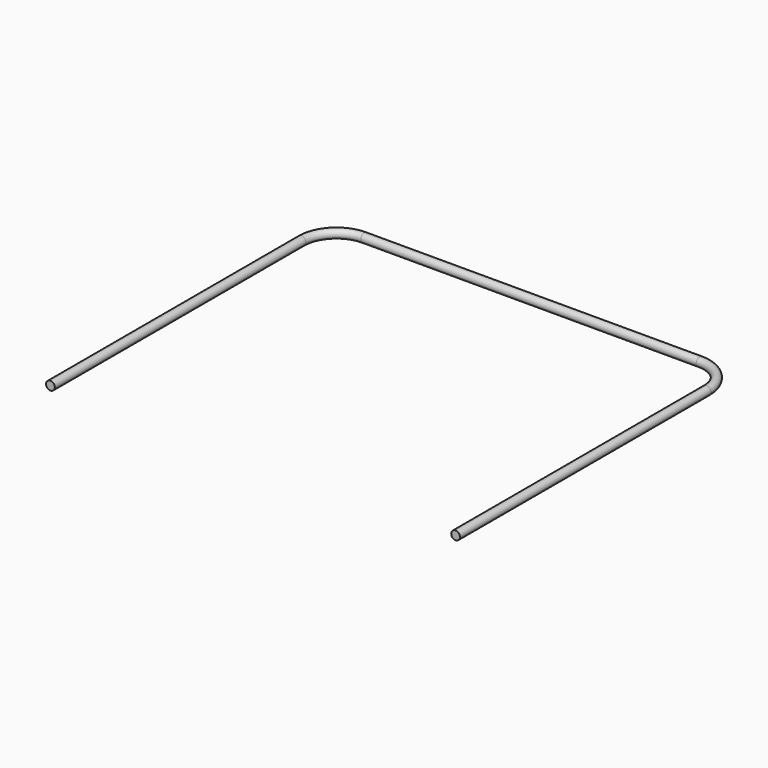
from build123d import *

# Parameters (mm, degrees)
F1_R = 25


with BuildPart() as f2:
    # F2: sweep along a path in F0
    with BuildLine(Plane.XY) as f2_path:
        Line((-1100, 0), (-1100, 1800))
        ThreePointArc((-1100, 1800), (-1041.421356, 1941.421356), (-900, 2000))
        Line((-900, 2000), (1024, 2000))
        ThreePointArc((1024, 2000), (1165.421356, 1941.421356), (1224, 1800))
        Line((1224, 1800), (1224, 0))
    # F1 (on Front) → F2 (sweep)
    with BuildSketch(Plane.XZ):
        with Locations((-1100, 0)):
            Circle(F1_R)
    sweep(path=f2_path.line)


solid = f2.part
